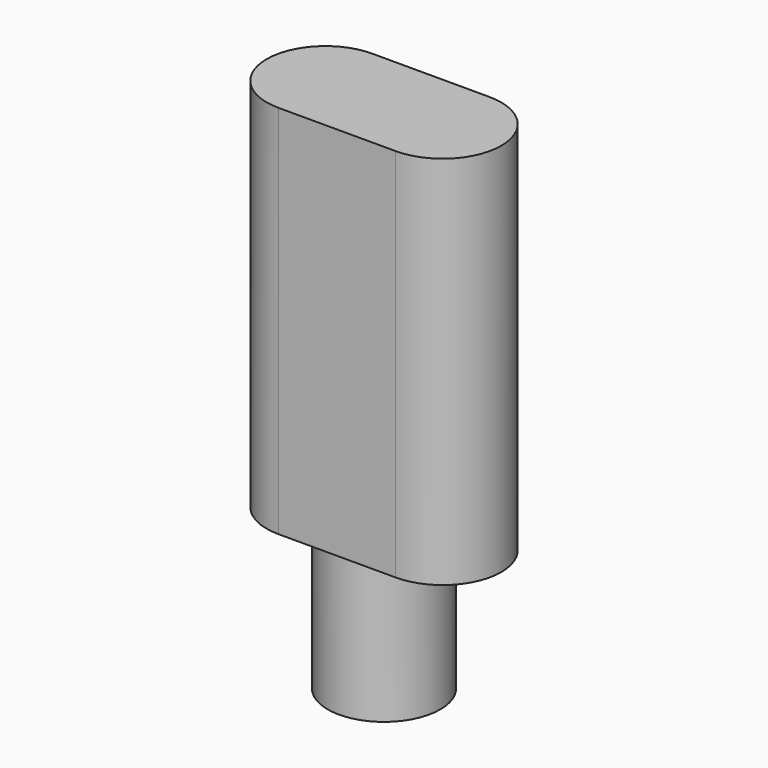
from build123d import *

# Parameters (mm, degrees)
PAD_DEPTH    = 8
SKETCH001_R  = 2.4
PAD001_DEPTH = 6


with BuildPart() as part:
    # Sketch → Pad (new body, symmetric)
    with BuildSketch(Plane.XY):
        with BuildLine():
            ThreePointArc((-2.5, 2.5), (-5, 0), (-2.5, -2.5))
            Line((-2.5, -2.5), (2.5, -2.5))
            ThreePointArc((2.5, -2.5), (5, 0), (2.5, 2.5))
            Line((2.5, 2.5), (-2.5, 2.5))
        make_face()
    extrude(amount=PAD_DEPTH, both=True)

    # Sketch001 (on Face5 of Pad) → Pad001 (join)
    with BuildSketch(Plane(origin=(0, 0, -8), x_dir=(1, 0, 0), z_dir=(0, 0, -1))):
        Circle(SKETCH001_R)
    extrude(amount=PAD001_DEPTH)


solid = part.part
